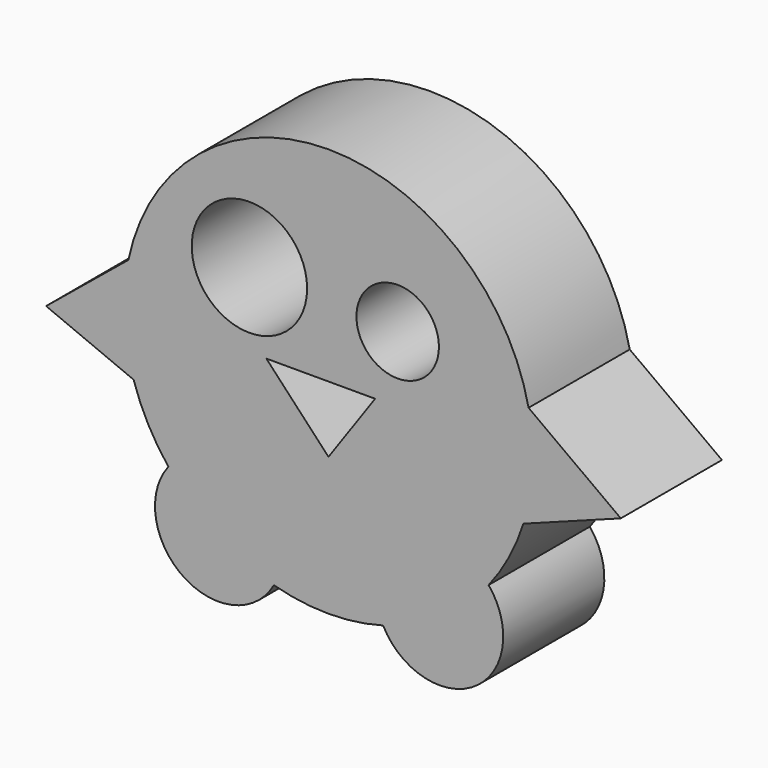
from build123d import *

# Parameters (mm, degrees)
F0_R     = 11.591064
F0_R_2   = 8.286471
F1_DEPTH = 25.4


with BuildPart() as f1:
    # F0 (on Front) → F1 (new body)
    with BuildSketch(Plane.XZ):
        with BuildLine():
            ThreePointArc((18.303812, 5.605529), (19.740788, 11.737184), (20.223563, 18.016437))
            ThreePointArc((20.223563, 18.016437), (20.00443, 22.253734), (19.349371, 26.445823))
            ThreePointArc((19.349371, 26.445823), (-20.85367, 59.09367), (-61.056712, 26.445823))
            ThreePointArc((-61.056712, 26.445823), (-61.879304, 15.958178), (-60.011153, 5.605529))
            ThreePointArc((-60.011153, 5.605529), (-57.118422, -1.276225), (-53.028005, -7.520816))
            ThreePointArc((-53.028005, -7.520816), (-43.541093, -16.227101), (-31.824876, -21.568556))
            ThreePointArc((-31.824876, -21.568556), (-20.85367, -23.060796), (-9.882464, -21.568556))
            ThreePointArc((-9.882464, -21.568556), (1.833753, -16.227101), (11.320664, -7.520816))
            ThreePointArc((11.320664, -7.520816), (15.411082, -1.276225), (18.303812, 5.605529))
        make_face()
        Polygon((-33.3375, 18.016437), (-20.85367, 18.016437), (-11.490798, 18.016437), (-20.85367, 4.681436), align=None, mode=Mode.SUBTRACT)
        with Locations((-36.742181, 33.053778)):
            Circle(F0_R, mode=Mode.SUBTRACT)
        with Locations((-6.951223, 31.351436)):
            Circle(F0_R_2, mode=Mode.SUBTRACT)
        with BuildLine():
            ThreePointArc((19.349371, 26.445823), (20.00443, 22.253734), (20.223563, 18.016437))
            ThreePointArc((20.223563, 18.016437), (19.740788, 11.737184), (18.303812, 5.605529))
            Line((18.303812, 5.605529), (37.877075, 12.909415))
            Line((37.877075, 12.909415), (19.349371, 26.445823))
        make_face()
        with BuildLine():
            ThreePointArc((-60.011153, 5.605529), (-61.879304, 15.958178), (-61.056712, 26.445823))
            Line((-61.056712, 26.445823), (-77.598356, 12.909415))
            Line((-77.598356, 12.909415), (-60.011153, 5.605529))
        make_face()
        with BuildLine():
            ThreePointArc((-9.882464, -21.568556), (8.530379, -26.334736), (11.320664, -7.520816))
            ThreePointArc((11.320664, -7.520816), (1.833753, -16.227101), (-9.882464, -21.568556))
        make_face()
        with BuildLine():
            ThreePointArc((-31.824876, -21.568556), (-43.541093, -16.227101), (-53.028005, -7.520816))
            ThreePointArc((-53.028005, -7.520816), (-50.003519, -25.981242), (-31.824876, -21.568556))
        make_face()
    extrude(amount=F1_DEPTH)


solid = f1.part
